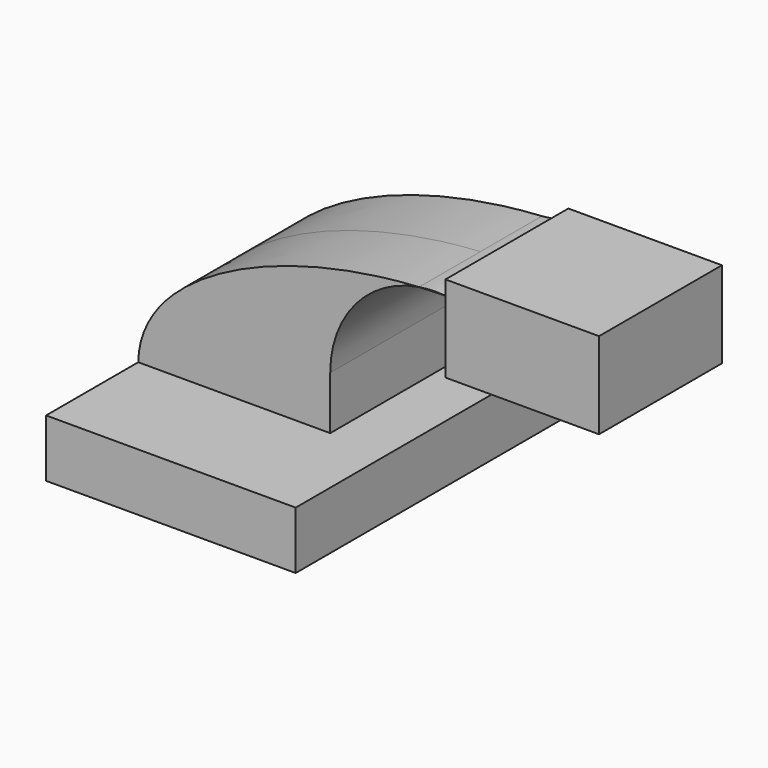
from build123d import *

# Parameters (mm, degrees)
F1_DEPTH = 63.5
F2_DEPTH = 25.4
F0_W     = 25.4
F0_H     = 4.7752
F0_H_2   = 4.7498
F0_H_3   = 19.05


with BuildPart() as f1:
    # F0 (on Front) → F1 (new body, symmetric)
    with BuildSketch(Plane.XZ):
        Polygon((-41.275, 9.525), (-41.275, -9.525), (41.275, -9.525), (41.275, 9.525), (22.225, 9.525), align=None)
    extrude(amount=F1_DEPTH, both=True)



with BuildPart() as f2:
    # F0 (on Front) → F2 (new body, symmetric)
    with BuildSketch(Plane.XZ):
        with BuildLine():
            ThreePointArc((60.2050781489, 61.9252), (55.8848287456, 62.0361555078), (51.5839516114, 61.6126913338))
            add(Edge.make_bspline(
                [(51.5839516114, 61.6126913338), (54.448865566, 61.7836535364), (57.3254993367, 61.8886603407), (60.2050781489, 61.9252)],
                knots=[107.760472716, 107.760472716, 107.760472716, 107.760472716, 114.2102763377, 114.2102763377, 114.2102763377, 114.2102763377], degree=3))
        make_face()
    extrude(amount=F2_DEPTH, both=True)


with BuildPart() as f1_1:
    add(f1.part)

    add(f2.part)  # F2#2 merges F2
    # F0 (on Front) → F2, piece 2 (join, symmetric)
    with BuildSketch(Plane.XZ):
        Polygon((-41.275, 9.525), (-41.275, -9.525), (41.275, -9.525), (41.275, 9.525), (22.225, 9.525), align=None)
        with BuildLine():
            add(Edge.make_bspline(
                [(-41.275, 9.525), (-40.8759856478, 37.4890133088), (3.7182334986, 58.7563302966), (51.5839516114, 61.6126913338)],
                knots=[0, 0, 0, 0, 107.760472716, 107.760472716, 107.760472716, 107.760472716], degree=3))
            Line((-41.275, 9.525), (22.225, 9.525))
            Line((22.225, 9.525), (22.225, 27.1340786829))
            ThreePointArc((22.225, 27.1340786829), (30.5591193736, 49.7765320065), (51.5839516114, 61.6126913338))
        make_face()
    extrude(amount=F2_DEPTH, both=True)


with BuildPart() as f2b:
    # F0 (on Front) → F2, piece 3 (new body, symmetric)
    with BuildSketch(Plane.XZ):
        with Locations((73.025, 40.4876)):
            Rectangle(F0_W, F0_H)
        with Locations((73.025, 64.3001)):
            Rectangle(F0_W, F0_H_2)
        Polygon((85.725, 66.675), (85.725, 61.9252), (85.725, 42.8752), (85.725, 38.1), (111.125, 38.1), (111.125, 66.675), align=None)
        with Locations((73.025, 52.4002)):
            Rectangle(F0_W, F0_H_3)
    extrude(amount=F2_DEPTH, both=True)


solid = Compound([f1_1.part, f2b.part])
